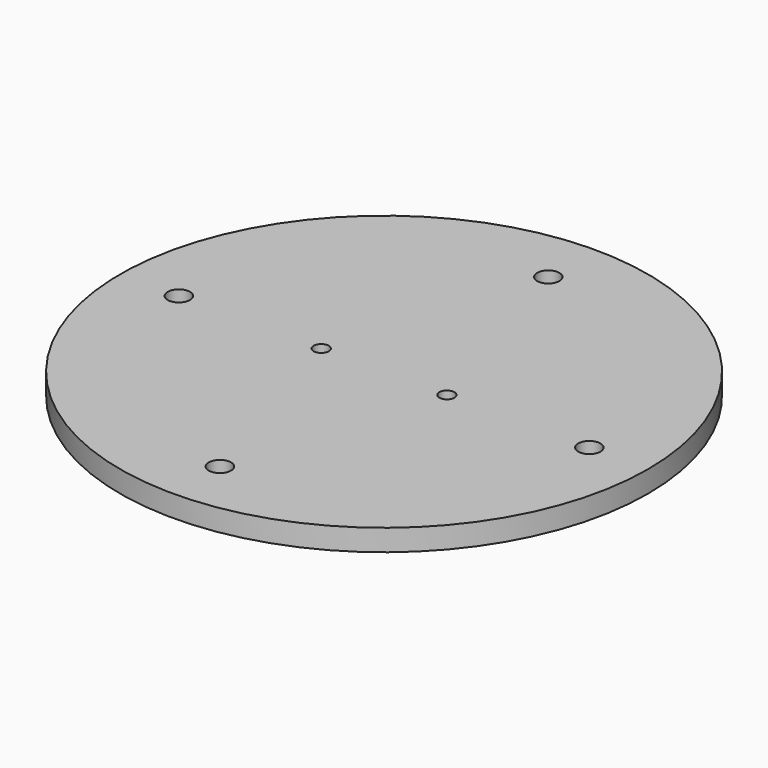
from build123d import *

# Parameters (mm, degrees)
F0_R     = 73.5
F0_R_2   = 3.1
F0_R_3   = 2.1
F1_DEPTH = 6


with BuildPart() as f1:
    # F0 (on Top) → F1 (new body)
    with BuildSketch(Plane.XY):
        Circle(F0_R)
        with Locations((0, -57.15)):
            Circle(F0_R_2, mode=Mode.SUBTRACT)
        with Locations((-57.15, 0)):
            Circle(F0_R_2, mode=Mode.SUBTRACT)
        with Locations((-17.5, 0)):
            Circle(F0_R_3, mode=Mode.SUBTRACT)
        with Locations((17.5, 0)):
            Circle(F0_R_3, mode=Mode.SUBTRACT)
        with Locations((57.15, 0)):
            Circle(F0_R_2, mode=Mode.SUBTRACT)
        with Locations((0, 57.15)):
            Circle(F0_R_2, mode=Mode.SUBTRACT)
    extrude(amount=F1_DEPTH)


solid = f1.part
